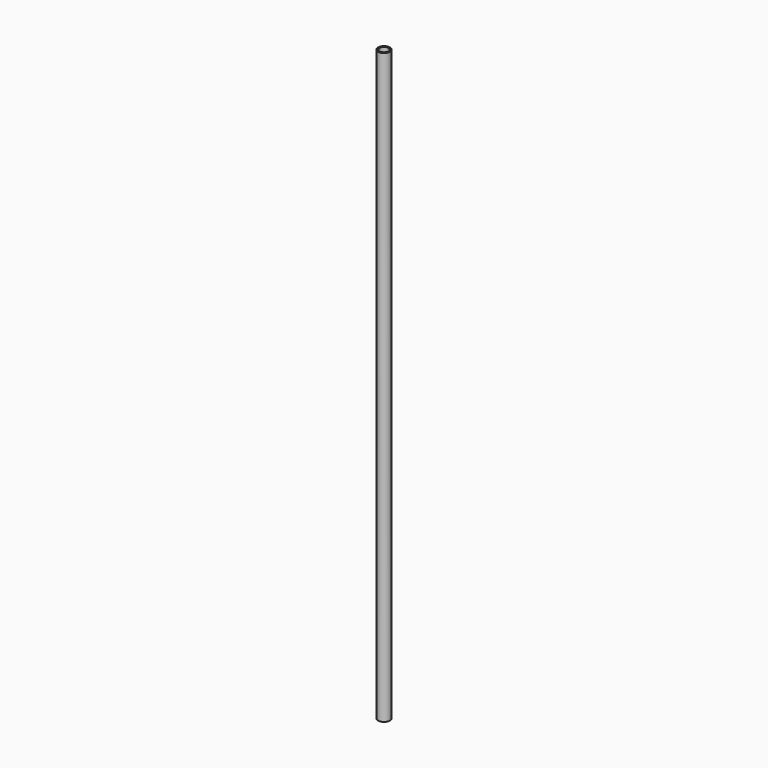
from build123d import *

# Parameters (mm, degrees)
F0_R     = 10
F0_R_2   = 7.5
F1_DEPTH = 985
F3_DEPTH = 1005


with BuildPart() as f1:
    # F0 (on Top) → F1 (new body)
    with BuildSketch(Plane.XY):
        Circle(F0_R)
        Circle(F0_R_2, mode=Mode.SUBTRACT)
    extrude(amount=F1_DEPTH)


with BuildPart() as f3:
    # F0 (on Top) → F3 (new body)
    with BuildSketch(Plane.XY):
        with Locations((149.209142, -44.897571)):
            Circle(F0_R)
        with Locations((149.209142, -44.897571)):
            Circle(F0_R_2, mode=Mode.SUBTRACT)
    extrude(amount=F3_DEPTH)


solid = f1.part
